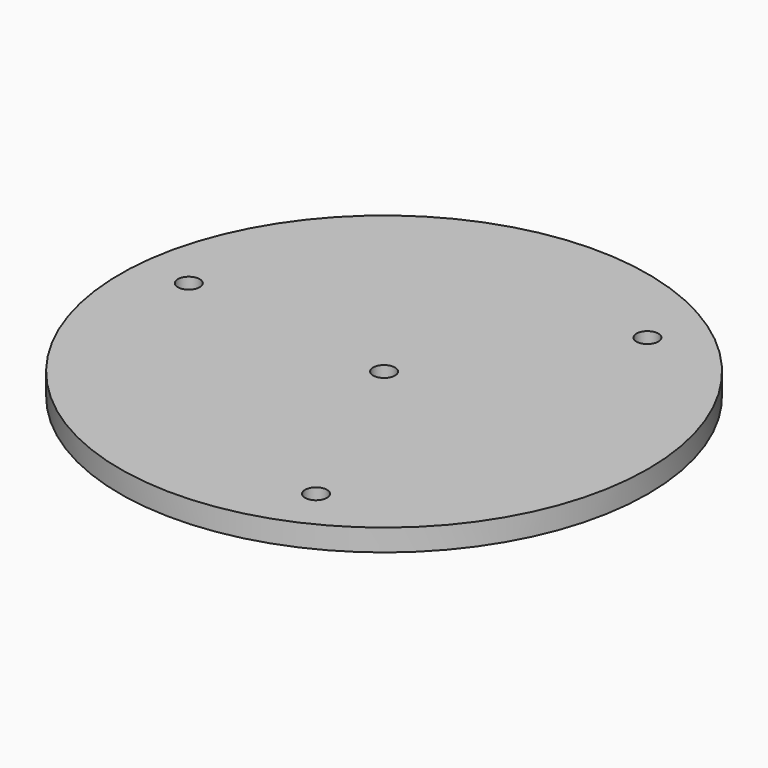
from build123d import *

# Parameters (mm, degrees)
SKETCH_R     = 24.107232
SKETCH_R_2   = 1
PAD_DEPTH    = 2
SKETCH001_R  = 2.5
PAD001_DEPTH = 4
CHAMFER_SIZE = 0.4


with BuildPart() as part:
    # Sketch → Pad (new body)
    with BuildSketch(Plane.XY):
        with Locations((113.5, 39.5)):
            Circle(SKETCH_R)
        with Locations((124.893001, 55.325597)):
            Circle(SKETCH_R_2, mode=Mode.SUBTRACT)
        with Locations((94.09813, 41.45383)):
            Circle(SKETCH_R_2, mode=Mode.SUBTRACT)
        with Locations((121.508868, 21.720573)):
            Circle(SKETCH_R_2, mode=Mode.SUBTRACT)
        with Locations((113.5, 39.5)):
            Circle(SKETCH_R_2, mode=Mode.SUBTRACT)
    extrude(amount=PAD_DEPTH)

    # Sketch001 (on Face7 of Pad) → Pad001 (join)
    with BuildSketch(Plane.XY.offset(2)):
        with Locations((108.5, 34.51)):
            Circle(SKETCH001_R)
        with Locations((108.5, 54.51)):
            Circle(SKETCH001_R)
        with Locations((128.5, 44.51)):
            Circle(SKETCH001_R)
    extrude(amount=-PAD001_DEPTH)

    # Chamfer
    chamfer_edges = [part.edges().sort_by_distance(p)[0] for p in [
        (106, 34.51, -2),
        (106, 54.51, -2),
        (126, 44.51, -2),
    ]]
    chamfer(chamfer_edges, length=CHAMFER_SIZE)


solid = part.part
